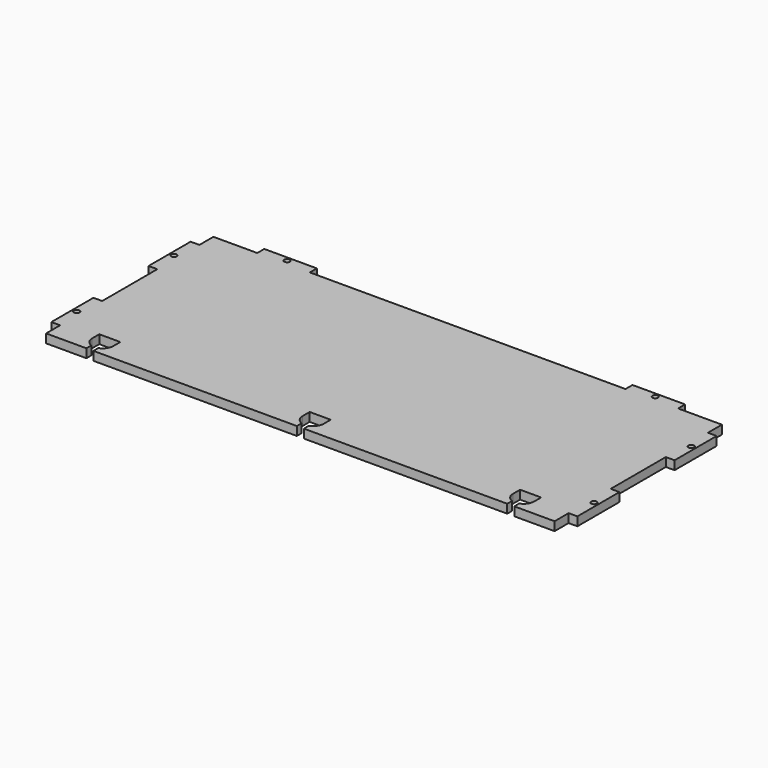
from build123d import *

# Parameters (mm, degrees)
F0_R     = 1.6
F1_DEPTH = 5


with BuildPart() as f1:
    # F0 (on Top) → F1 (new body)
    with BuildSketch(Plane.XY):
        with BuildLine():
            Line((25, 0), (0, 0))
            Line((0, 0), (0, -10))
            Line((0, -10), (-5, -10))
            Line((-5, -10), (-5, -40))
            Line((-5, -40), (0, -40))
            Line((0, -40), (0, -79.29))
            Line((0, -79.29), (-5, -79.29))
            Line((-5, -79.29), (-5, -109.29))
            Line((-5, -109.29), (0, -109.29))
            Line((0, -109.29), (0, -119.29))
            Line((0, -119.29), (23, -119.29))
            Line((23, -119.29), (23, -115.79))
            ThreePointArc((23, -115.79), (20.101021, -113.597247), (19, -110.133146))
            Line((19, -110.133146), (19, -105.133146))
            Line((19, -105.133146), (31, -105.133146))
            Line((31, -105.133146), (31, -110.133146))
            ThreePointArc((31, -110.133146), (29.898979, -113.597247), (27, -115.79))
            Line((27, -115.79), (27, -119.29))
            Line((27, -119.29), (143, -119.29))
            Line((143, -119.29), (143, -115.79))
            ThreePointArc((143, -115.79), (140.101021, -113.597247), (139, -110.133146))
            Line((139, -110.133146), (139, -105.133146))
            Line((139, -105.133146), (151, -105.133146))
            Line((151, -105.133146), (151, -110.133146))
            ThreePointArc((151, -110.133146), (149.898979, -113.597247), (147, -115.79))
            Line((147, -115.79), (147, -119.29))
            Line((147, -119.29), (263, -119.29))
            Line((263, -119.29), (263, -115.79))
            ThreePointArc((263, -115.79), (260.101021, -113.597247), (259, -110.133146))
            Line((259, -110.133146), (259, -105.133146))
            Line((259, -105.133146), (271, -105.133146))
            Line((271, -105.133146), (271, -110.133146))
            ThreePointArc((271, -110.133146), (269.898979, -113.597247), (267, -115.79))
            Line((267, -115.79), (267, -119.29))
            Line((267, -119.29), (290, -119.29))
            Line((290, -119.29), (290, -109.29))
            Line((290, -109.29), (295, -109.29))
            Line((295, -109.29), (295, -79.29))
            Line((295, -79.29), (290, -79.29))
            Line((290, -79.29), (290, -40))
            Line((290, -40), (295, -40))
            Line((295, -40), (295, -10))
            Line((295, -10), (290, -10))
            Line((290, -10), (290, 0))
            Line((290, 0), (265, 0))
            Line((265, 0), (265, 5))
            Line((265, 5), (235, 5))
            Line((235, 5), (235, 0))
            Line((235, 0), (55, 0))
            Line((55, 0), (55, 5))
            Line((55, 5), (25, 5))
            Line((25, 5), (25, 0))
        make_face()
        with Locations((-2.5, -94.29)):
            Circle(F0_R, mode=Mode.SUBTRACT)
        with Locations((292.5, -94.29)):
            Circle(F0_R, mode=Mode.SUBTRACT)
        with Locations((-2.5, -25)):
            Circle(F0_R, mode=Mode.SUBTRACT)
        with Locations((40, 2.5)):
            Circle(F0_R, mode=Mode.SUBTRACT)
        with Locations((292.5, -25)):
            Circle(F0_R, mode=Mode.SUBTRACT)
        with Locations((250, 2.5)):
            Circle(F0_R, mode=Mode.SUBTRACT)
    extrude(amount=F1_DEPTH)


solid = f1.part
